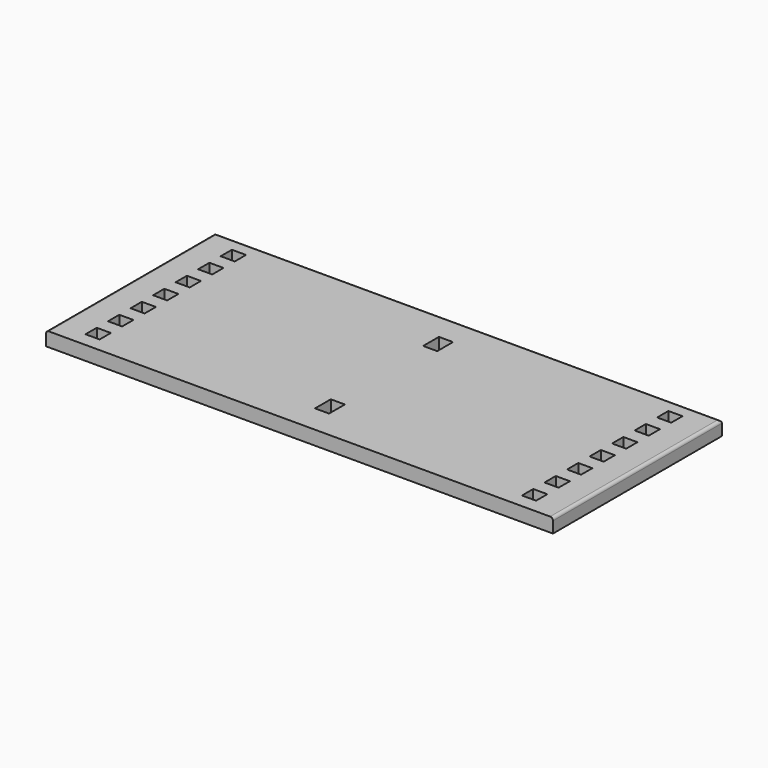
from build123d import *

# Parameters (mm, degrees)
F0_W     = 450
F0_H     = 375
F0_W_2   = 25
F0_H_2   = 25
F1_DEPTH = 25
F3_W     = 25
F3_H     = 35
F4_DEPTH = 25
F5_R     = 5


with BuildPart() as f1:
    # F0 (on Top) → F1 (new body)
    with BuildSketch(Plane.XY):
        with Locations((-225, 46.5578983041)):
            Rectangle(F0_W, F0_H)
        with Locations((-387.5, -103.4421016959)):
            Rectangle(F0_W_2, F0_H_2, mode=Mode.SUBTRACT)
        with Locations((-387.5, -53.4421016959)):
            Rectangle(F0_W_2, F0_H_2, mode=Mode.SUBTRACT)
        with Locations((-387.5, -3.4421016959)):
            Rectangle(F0_W_2, F0_H_2, mode=Mode.SUBTRACT)
        with Locations((-387.5, 46.5578983041)):
            Rectangle(F0_W_2, F0_H_2, mode=Mode.SUBTRACT)
        with Locations((-387.5, 96.5578983041)):
            Rectangle(F0_W_2, F0_H_2, mode=Mode.SUBTRACT)
        with Locations((-387.5, 146.5578983041)):
            Rectangle(F0_W_2, F0_H_2, mode=Mode.SUBTRACT)
        with Locations((-387.5, 196.5578983041)):
            Rectangle(F0_W_2, F0_H_2, mode=Mode.SUBTRACT)
    extrude(amount=F1_DEPTH)

    # F2: F1 across face


with BuildPart() as f1_1:
    add(f1.part)
    add(f1.part.mirror(Plane(origin=(0, 46.5578983041, 12.5), x_dir=(0, 1, 0), z_dir=(1, 0, 0))))

    # F3 (on face) → F4 (cut)
    with BuildSketch(Plane(origin=(0, 0, 0), x_dir=(1, 0, 0), z_dir=(0, 0, -1))):
        with Locations((0, -166.5578983041)):
            Rectangle(F3_W, F3_H)
        with Locations((0, 73.4421016959)):
            Rectangle(F3_W, F3_H)
    extrude(amount=-F4_DEPTH, mode=Mode.SUBTRACT)

    # F5
    f5_edges = [f1_1.edges().sort_by_distance(p)[0] for p in [
        (0, 234.057898, 25),
        (450, 46.557898, 25),
        (-450, 46.557898, 25),
    ]]
    fillet(f5_edges, radius=F5_R)


solid = f1_1.part
